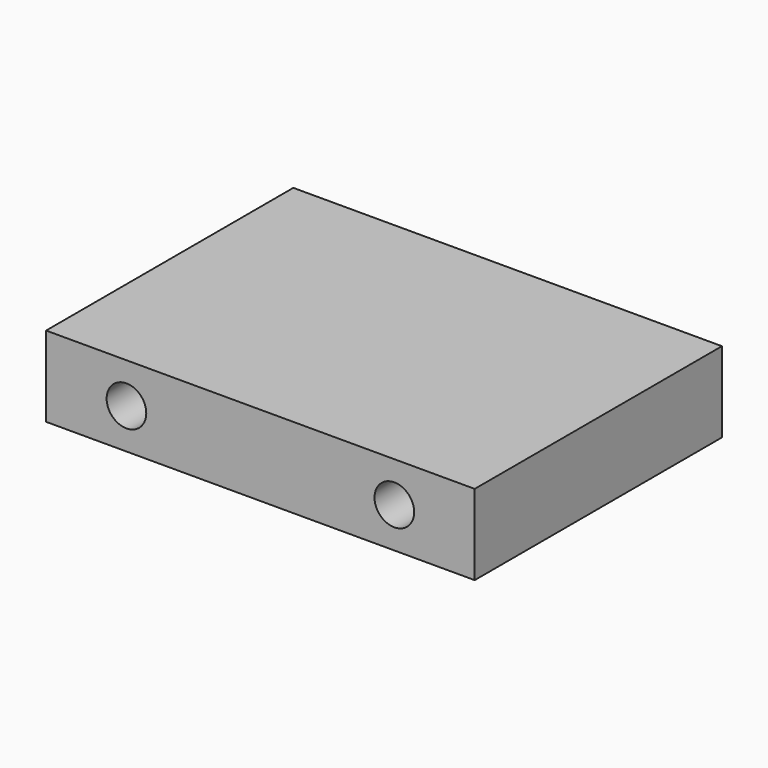
from build123d import *

# Parameters (mm, degrees)
SKETCH_W     = 50.8
SKETCH_H     = 36.6268
PAD_DEPTH    = 9.525
SKETCH001_R  = 2.3495
POCKET_DEPTH = 36.6278


with BuildPart() as part:
    # Sketch → Pad (new body)
    with BuildSketch(Plane.XY):
        Rectangle(SKETCH_W, SKETCH_H)
    extrude(amount=PAD_DEPTH)

    # Sketch001 → Pocket (cut, through all)
    with BuildSketch(Plane.XZ.offset(18.3134)):
        with Locations((-15.875, 4.7625)):
            Circle(SKETCH001_R)
        with Locations((15.875, 4.7625)):
            Circle(SKETCH001_R)
    extrude(amount=-POCKET_DEPTH, mode=Mode.SUBTRACT)


solid = part.part
